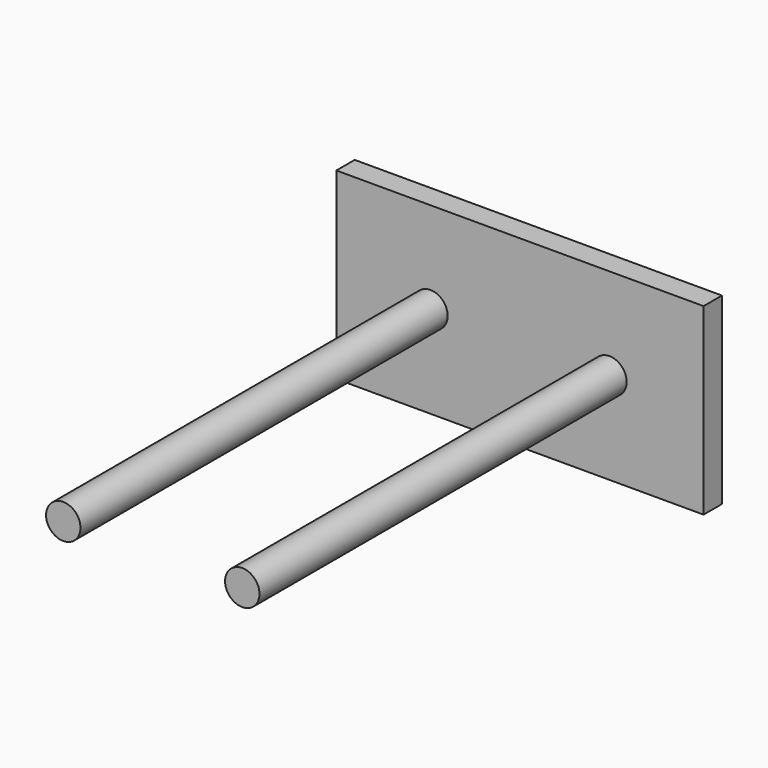
from build123d import *

# Parameters (mm, degrees)
F0_R     = 9.525
F1_DEPTH = 254
F0_W     = 203.2
F0_H     = 101.6
F2_DEPTH = 12.7


with BuildPart() as f1:
    # F0 (on Front) → F1 (new body)
    with BuildSketch(Plane.XZ):
        with Locations((-49.53, 0)):
            Circle(F0_R)
        with Locations((49.53, 0)):
            Circle(F0_R)
    extrude(amount=F1_DEPTH)


with BuildPart() as f2:
    # F0 (on Front) → F2 (new body)
    with BuildSketch(Plane.XZ):
        Rectangle(F0_W, F0_H)
        with Locations((-49.53, 0)):
            Circle(F0_R, mode=Mode.SUBTRACT)
        with Locations((49.53, 0)):
            Circle(F0_R, mode=Mode.SUBTRACT)
    extrude(amount=-F2_DEPTH)


solid = Compound([f1.part, f2.part])
